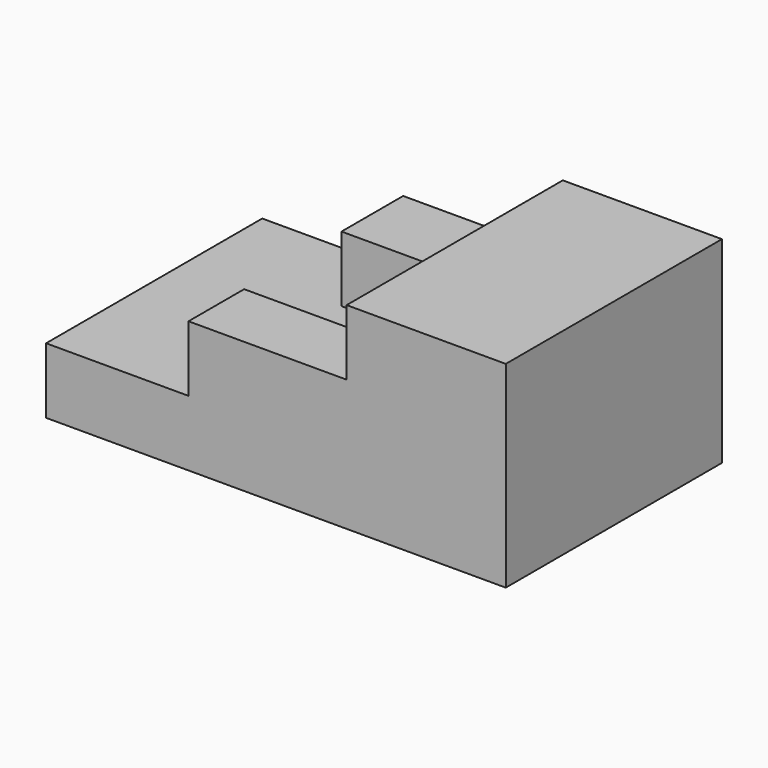
from build123d import *

# Parameters (mm, degrees)
F0_W     = 88.9
F0_H     = 52.248245614
F1_DEPTH = 12.7
F2_W     = 30.8722835034
F2_H     = 14.9023200136
F2_W_2   = 30.5808074772
F2_H_2   = 13.4449426767
F3_DEPTH = 12.7
F4_DEPTH = 25.4


with BuildPart() as f1:
    # F0 (on Top) → F1 (new body)
    with BuildSketch(Plane.XY):
        Rectangle(F0_W, F0_H)
    extrude(amount=F1_DEPTH)

    # F2 (on face) → F3 (join)
    with BuildSketch(Plane.XY.offset(12.7)):
        with Locations((-1.7609084025, 18.6729628002)):
            Rectangle(F2_W, F2_H)
        with Locations((-1.6151703894, -19.4016514687)):
            Rectangle(F2_W_2, F2_H_2)
    extrude(amount=F3_DEPTH)

    # F2 (on face) → F4 (join)
    with BuildSketch(Plane.XY.offset(12.7)):
        Polygon((44.45, 26.124122807), (13.6752333492, 26.124122807), (13.6752333492, 11.2218027934), (13.6752333492, -12.6791801304), (13.6752333492, -26.124122807), (44.45, -26.124122807), (44.45, -12.6791801304), (44.45, 11.2218027934), align=None)
    extrude(amount=F4_DEPTH)


solid = f1.part
